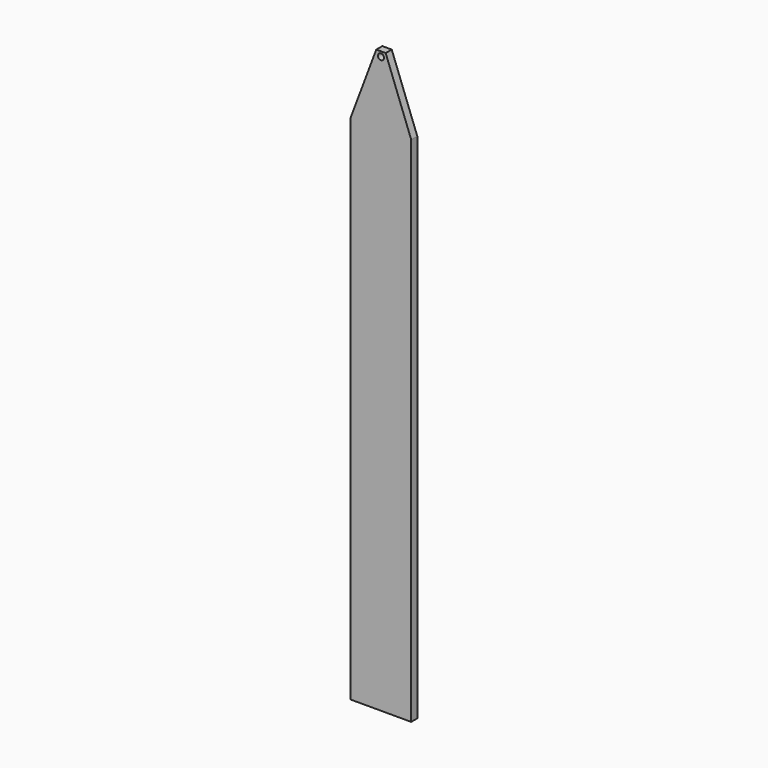
from build123d import *

# Parameters (mm, degrees)
F0_W     = 31.75
F0_H     = 3.9878
F1_DEPTH = 152.4
F2_R     = 1.5875
F3_DEPTH = 3.9888


with BuildPart() as f1:
    # F0 (on Top) → F1 (new body, symmetric)
    with BuildSketch(Plane.XY):
        Rectangle(F0_W, F0_H)
    extrude(amount=F1_DEPTH, both=True)

    # F2 (on face) → F3 (cut, through all)
    with BuildSketch(Plane.XZ.offset(1.9939)):
        with Locations((0, 149.86)):
            Circle(F2_R)
        Polygon((-15.875, 116.70918), (-2.472009, 152.4), (-15.875, 152.4), align=None)
        Polygon((15.875, 152.4), (2.472009, 152.4), (15.875, 116.70918), align=None)
    extrude(amount=-F3_DEPTH, mode=Mode.SUBTRACT)


solid = f1.part
